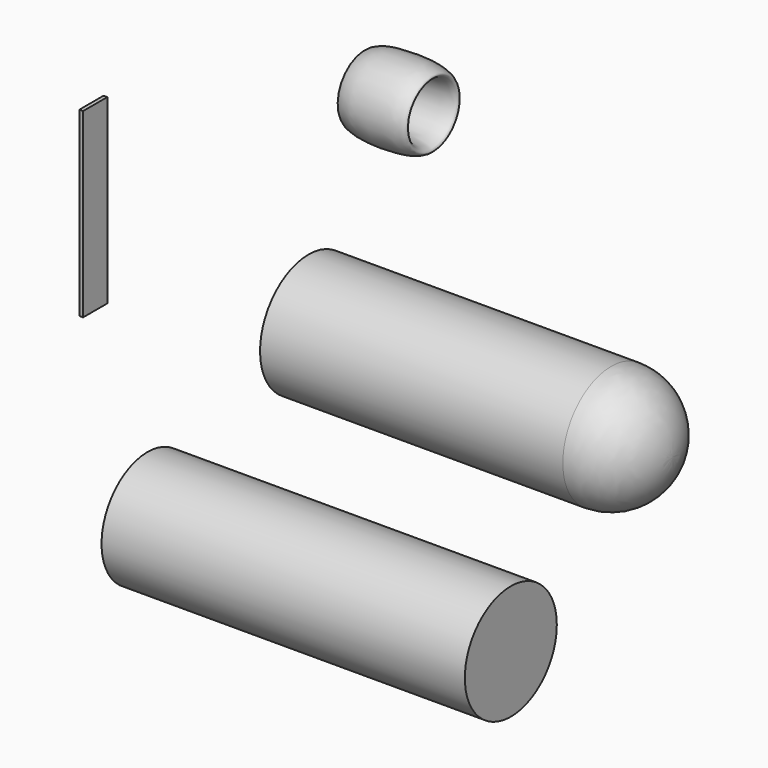
from build123d import *

# Parameters (mm, degrees)
F4_R     = 48.233949
F5_DEPTH = 304.8
F6_W     = 25.4
F6_H     = 152.4
F7_DEPTH = 3.175


with BuildPart() as f1:
    # F0 (on Front) → F1 (revolve)
    with BuildSketch(Plane.XZ):
        with BuildLine():
            Line((254, 50.8), (0, 50.8))
            Line((0, 50.8), (0, 0))
            Line((0, 0), (304.800008, 0))
            ThreePointArc((304.800008, 0), (289.921027, 35.921025), (254, 50.8))
        make_face()
    revolve(axis=Axis((152.400004, 0, 0), (1, 0, 0)))


with BuildPart() as f3:
    # F2 (on Front) → F3 (revolve)
    with BuildSketch(Plane.XZ):
        with BuildLine():
            add(Edge.make_bspline(
                [(104.721367, 161.527976), (104.721367, 171.835518), (61.080206, 166.681747), (17.439045, 161.527976), (61.080206, 156.374206), (104.721367, 151.220435), (104.721367, 161.527976)],
                knots=[0, 0, 0, 2.094395, 2.094395, 4.18879, 4.18879, 6.283185, 6.283185, 6.283185], degree=2, weights=[1, 0.5, 1, 0.5, 1, 0.5, 1]))
        make_face()
    revolve(axis=Axis((76.313546, 0, 188.661709), (1, 0, 0)))


with BuildPart() as f5:
    # F4 (on Right) → F5 (new body)
    with BuildSketch(Plane.YZ):
        with Locations((-168.832272, -74.680761)):
            Circle(F4_R)
    extrude(amount=F5_DEPTH)


with BuildPart() as f7:
    # F6 (on Right) → F7 (new body)
    with BuildSketch(Plane.YZ):
        with Locations((-227.706275, 179.247691)):
            Rectangle(F6_W, F6_H)
    extrude(amount=F7_DEPTH)


solid = Compound([f1.part, f3.part, f5.part, f7.part])
